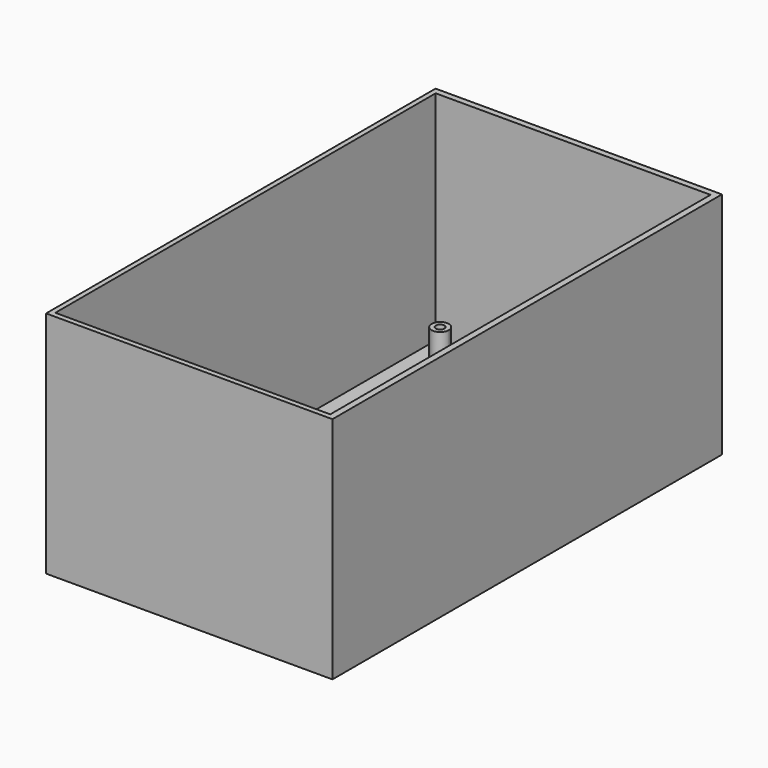
from build123d import *

# Parameters (mm, degrees)
F0_W     = 50
F0_H     = 85
F1_DEPTH = 40
F2_W     = 48
F2_H     = 83
F3_DEPTH = 38
F5_DEPTH = 5
F6_R     = 0.75
F7_DEPTH = 5


with BuildPart() as f1:
    # F0 (on Top) → F1 (new body)
    with BuildSketch(Plane.XY):
        with Locations((-9.93821384, -5.5663399398)):
            Rectangle(F0_W, F0_H)
    extrude(amount=F1_DEPTH)

    # F2 (on face) → F3 (cut)
    with BuildSketch(Plane.XY.offset(40)):
        with Locations((-10.0635439157, -5.6413925663)):
            Rectangle(F2_W, F2_H)
    extrude(amount=-F3_DEPTH, mode=Mode.SUBTRACT)

    # F4 (on face) → F5 (join)
    with BuildSketch(Plane.XY.offset(2)):
        with BuildLine():
            Line((-30.0635439157, 31.8586074337), (-30.0635439157, 33.3586074337))
            ThreePointArc((-30.0635439157, 33.3586074337), (-31.1242040875, 32.9192676054), (-31.5635439157, 31.8586074337))
            Line((-31.5635439157, 31.8586074337), (-30.0635439157, 31.8586074337))
        make_face()
        with BuildLine():
            ThreePointArc((-31.5635439157, 31.8586074337), (-30.0635439157, 30.3586074337), (-28.5635439157, 31.8586074337))
            ThreePointArc((-28.5635439157, 31.8586074337), (-29.002883744, 32.9192676054), (-30.0635439157, 33.3586074337))
            Line((-30.0635439157, 33.3586074337), (-30.0635439157, 31.8586074337))
            Line((-30.0635439157, 31.8586074337), (-31.5635439157, 31.8586074337))
        make_face()
    extrude(amount=F5_DEPTH)

    # F6 (on face) → F7 (cut)
    with BuildSketch(Plane.XY.offset(7)):
        with Locations((-30.0635439157, 31.8586074337)):
            Circle(F6_R)
    extrude(amount=-F7_DEPTH, mode=Mode.SUBTRACT)


solid = f1.part
